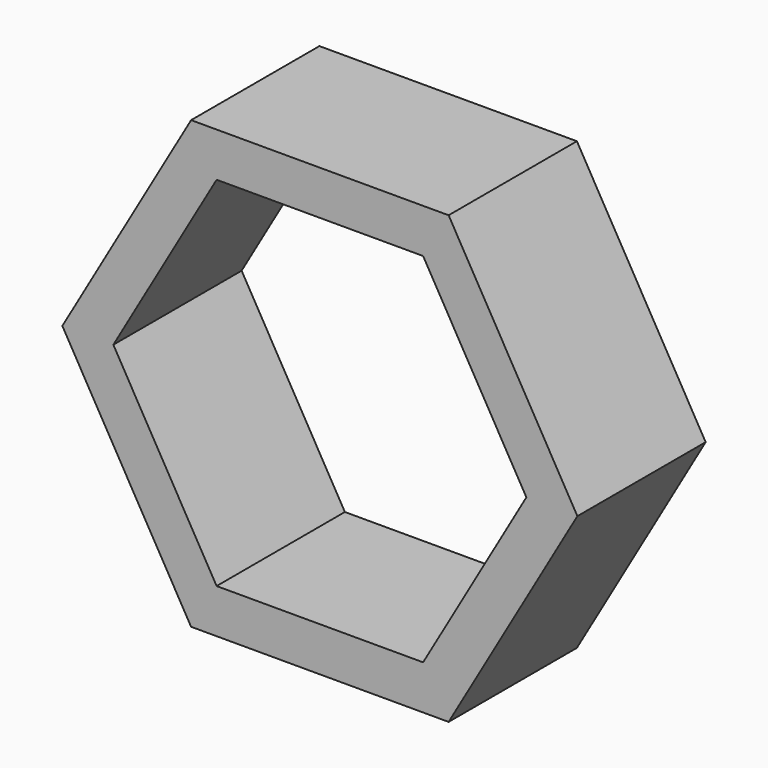
from build123d import *

# Parameters (mm, degrees)
F1_DEPTH = 41.148
F3_DEPTH = 166.878


with BuildPart() as f1:
    # F0 (on Front) → F1 (new body)
    with BuildSketch(Plane.XZ):
        Polygon((33.041396, 57.229377), (-33.041396, 57.229377), (-66.082793, 0), (-33.041396, -57.229377), (33.041396, -57.229377), (66.082793, 0), align=None)
    extrude(amount=F1_DEPTH)

    # F2 (on face) → F3 (cut)
    with BuildSketch(Plane(origin=(0, 0, 0), x_dir=(-1, 0, 0), z_dir=(0, 1, 0))):
        Polygon((26.497275, 45.894627), (-26.497275, 45.894627), (-52.99455, 0), (-26.497275, -45.894627), (26.497275, -45.894627), (52.99455, 0), align=None)
    extrude(amount=-F3_DEPTH, mode=Mode.SUBTRACT)


solid = f1.part
